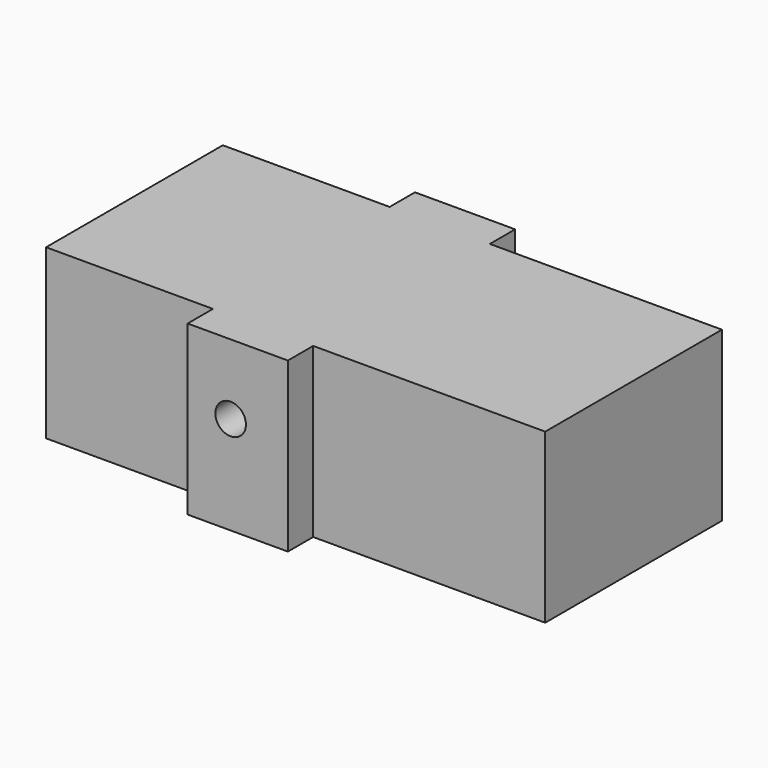
from build123d import *

# Parameters (mm, degrees)
F0_W     = 27.224668
F0_H     = 8.590308
F1_DEPTH = 45.7
F2_R     = 4.152501
F3_DEPTH = 77.181616


with BuildPart() as f1:
    # F0 (on Top) → F1 (new body)
    with BuildSketch(Plane.XY):
        Polygon((4.757709, -30), (67.79735, -30), (67.79735, 30), (4.757709, 30), (-22.466959, 30), (-67.79735, 30), (-67.79735, -30), (-22.466959, -30), align=None)
        with Locations((-8.854625, 34.295154)):
            Rectangle(F0_W, F0_H)
        with Locations((-8.854625, -34.295154)):
            Rectangle(F0_W, F0_H)
    extrude(amount=-F1_DEPTH)

    # F2 (on face) → F3 (cut, through all)
    with BuildSketch(Plane.XZ.offset(38.590308)):
        with Locations((-10.793294, -19.039521)):
            Circle(F2_R)
    extrude(amount=-F3_DEPTH, mode=Mode.SUBTRACT)


solid = f1.part
